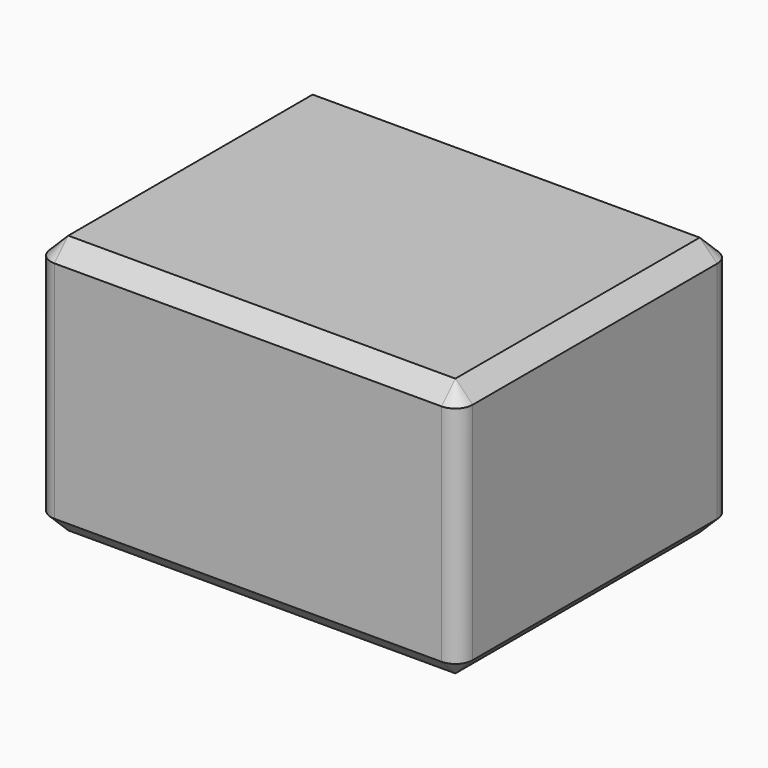
from build123d import *

# Parameters (mm, degrees)
F0_W     = 123.427745
F0_H     = 99.538509
F1_DEPTH = 75.946
F2_R     = 5.08
F3_SIZE  = 5.08


with BuildPart() as f1:
    # F0 (on Top) → F1 (new body)
    with BuildSketch(Plane.XY):
        with Locations((11.28103, -1.042786)):
            Rectangle(F0_W, F0_H)
    extrude(amount=F1_DEPTH)

    # F2
    f2_edges = [f1.edges().sort_by_distance(p)[0] for p in [
        (72.994903, 48.726469, 37.973),
        (-50.432842, 48.726469, 37.973),
        (72.994903, -50.81204, 37.973),
        (-50.432842, -50.81204, 37.973),
    ]]
    fillet(f2_edges, radius=F2_R)

    # F3
    f3_edges = [f1.edges().sort_by_distance(p)[0] for p in [
        (-50.432842, -1.042785, 75.946),
        (-50.432842, -1.042785, 0),
    ]]
    chamfer(f3_edges, length=F3_SIZE)


solid = f1.part
